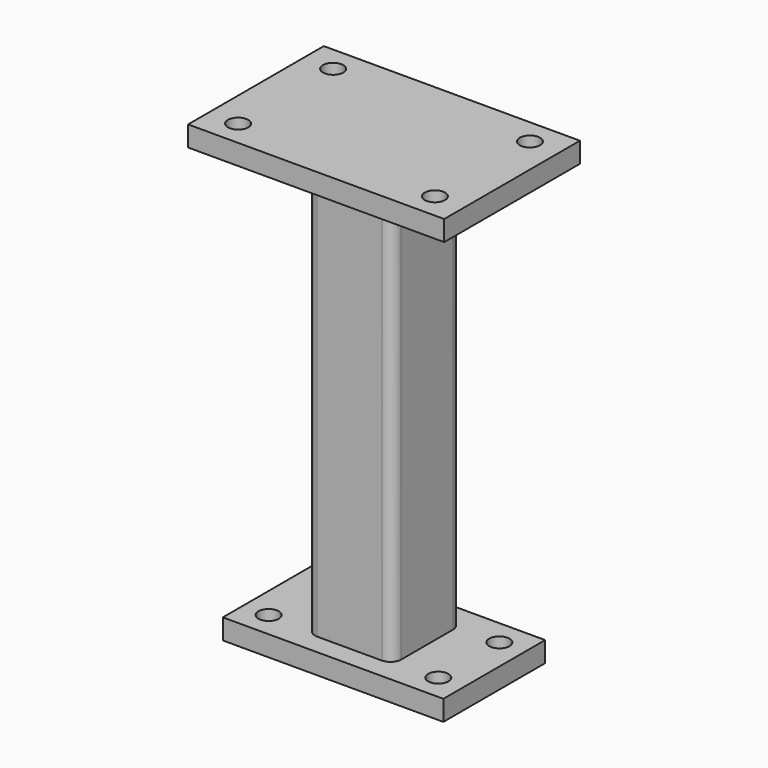
from build123d import *

# Parameters (mm, degrees)
F0_W     = 151
F0_H     = 100
F1_DEPTH = 12
F3_DEPTH = 245.5
F5_D     = 12
F5_DEPTH = 12
F5_TIP   = 3.6051637142
F6_W     = 130
F6_H     = 75
F7_DEPTH = 12
F9_D     = 12
F9_DEPTH = 12
F9_TIP   = 3.6051637142


with BuildPart() as f1:
    # F0 (on Top) → F1 (new body)
    with BuildSketch(Plane.XY):
        with Locations((75.5, 50)):
            Rectangle(F0_W, F0_H)
    extrude(amount=F1_DEPTH)

    # F2 (on face) → F3 (join)
    with BuildSketch(Plane(origin=(0, 0, 0), x_dir=(1, 0, 0), z_dir=(0, 0, -1))):
        with BuildLine():
            ThreePointArc((100.9, -30.95), (99.0401280605, -26.4598719395), (94.55, -24.6))
            Line((94.55, -24.6), (56.45, -24.6))
            ThreePointArc((56.45, -24.6), (51.9598719395, -26.4598719395), (50.1, -30.95))
            Line((50.1, -30.95), (50.1, -69.05))
            ThreePointArc((50.1, -69.05), (51.9598719395, -73.5401280605), (56.45, -75.4))
            Line((56.45, -75.4), (94.55, -75.4))
            ThreePointArc((94.55, -75.4), (99.0401280605, -73.5401280605), (100.9, -69.05))
            Line((100.9, -69.05), (100.9, -30.95))
        make_face()
        with BuildLine():
            Line((59.625, -27.775), (91.375, -27.775))
            ThreePointArc((91.375, -27.775), (95.8651280605, -29.6348719395), (97.725, -34.125))
            Line((97.725, -34.125), (97.725, -65.875))
            ThreePointArc((97.725, -65.875), (95.8651280605, -70.3651280605), (91.375, -72.225))
            Line((91.375, -72.225), (59.625, -72.225))
            ThreePointArc((59.625, -72.225), (55.1348719395, -70.3651280605), (53.275, -65.875))
            Line((53.275, -65.875), (53.275, -34.125))
            ThreePointArc((53.275, -34.125), (55.1348719395, -29.6348719395), (59.625, -27.775))
        make_face(mode=Mode.SUBTRACT)
    extrude(amount=F3_DEPTH)

    # F5
    with Locations(Plane.XY.offset(12)):
        with Locations((17.5, 85), (133.5, 85), (133.5, 15), (17.5, 15)):
            Hole(F5_D / 2, depth=F5_DEPTH)
            with Locations((0, 0, -(F5_DEPTH + F5_TIP / 2))):  # 118° drill point
                Cone(0, F5_D / 2, F5_TIP, mode=Mode.SUBTRACT)

    # F6 (on face) → F7 (join)
    with BuildSketch(Plane(origin=(0, 0, -245.5), x_dir=(1, 0, 0), z_dir=(0, 0, -1))):
        with Locations((75.5, -50)):
            Rectangle(F6_W, F6_H)
        with BuildLine():
            ThreePointArc((94.55, -24.6), (99.0401280605, -26.4598719395), (100.9, -30.95))
            Line((100.9, -30.95), (100.9, -69.05))
            ThreePointArc((100.9, -69.05), (99.0401280605, -73.5401280605), (94.55, -75.4))
            Line((94.55, -75.4), (56.45, -75.4))
            ThreePointArc((56.45, -75.4), (51.9598719395, -73.5401280605), (50.1, -69.05))
            Line((50.1, -69.05), (50.1, -30.95))
            ThreePointArc((50.1, -30.95), (51.9598719395, -26.4598719395), (56.45, -24.6))
            Line((56.45, -24.6), (94.55, -24.6))
        make_face(mode=Mode.SUBTRACT)
        with BuildLine():
            Line((100.9, -69.05), (100.9, -30.95))
            ThreePointArc((100.9, -30.95), (99.0401280605, -26.4598719395), (94.55, -24.6))
            Line((94.55, -24.6), (56.45, -24.6))
            ThreePointArc((56.45, -24.6), (51.9598719395, -26.4598719395), (50.1, -30.95))
            Line((50.1, -30.95), (50.1, -69.05))
            ThreePointArc((50.1, -69.05), (51.9598719395, -73.5401280605), (56.45, -75.4))
            Line((56.45, -75.4), (94.55, -75.4))
            ThreePointArc((94.55, -75.4), (99.0401280605, -73.5401280605), (100.9, -69.05))
        make_face()
        with BuildLine():
            Line((53.275, -65.875), (53.275, -34.125))
            ThreePointArc((53.275, -34.125), (55.1348719395, -29.6348719395), (59.625, -27.775))
            Line((59.625, -27.775), (91.375, -27.775))
            ThreePointArc((91.375, -27.775), (95.8651280605, -29.6348719395), (97.725, -34.125))
            Line((97.725, -34.125), (97.725, -65.875))
            ThreePointArc((97.725, -65.875), (95.8651280605, -70.3651280605), (91.375, -72.225))
            Line((91.375, -72.225), (59.625, -72.225))
            ThreePointArc((59.625, -72.225), (55.1348719395, -70.3651280605), (53.275, -65.875))
        make_face(mode=Mode.SUBTRACT)
        with BuildLine():
            ThreePointArc((59.625, -27.775), (55.1348719395, -29.6348719395), (53.275, -34.125))
            Line((53.275, -34.125), (53.275, -65.875))
            ThreePointArc((53.275, -65.875), (55.1348719395, -70.3651280605), (59.625, -72.225))
            Line((59.625, -72.225), (91.375, -72.225))
            ThreePointArc((91.375, -72.225), (95.8651280605, -70.3651280605), (97.725, -65.875))
            Line((97.725, -65.875), (97.725, -34.125))
            ThreePointArc((97.725, -34.125), (95.8651280605, -29.6348719395), (91.375, -27.775))
            Line((91.375, -27.775), (59.625, -27.775))
        make_face()
    extrude(amount=F7_DEPTH)

    # F9
    with Locations(Plane(origin=(0, 0, -257.5), x_dir=(1, 0, 0), z_dir=(0, 0, -1))):
        with Locations((25.5, -27.5), (25.5, -72.5), (125.5, -72.5), (125.5, -27.5)):
            Hole(F9_D / 2, depth=F9_DEPTH)
            with Locations((0, 0, -(F9_DEPTH + F9_TIP / 2))):  # 118° drill point
                Cone(0, F9_D / 2, F9_TIP, mode=Mode.SUBTRACT)


solid = f1.part
